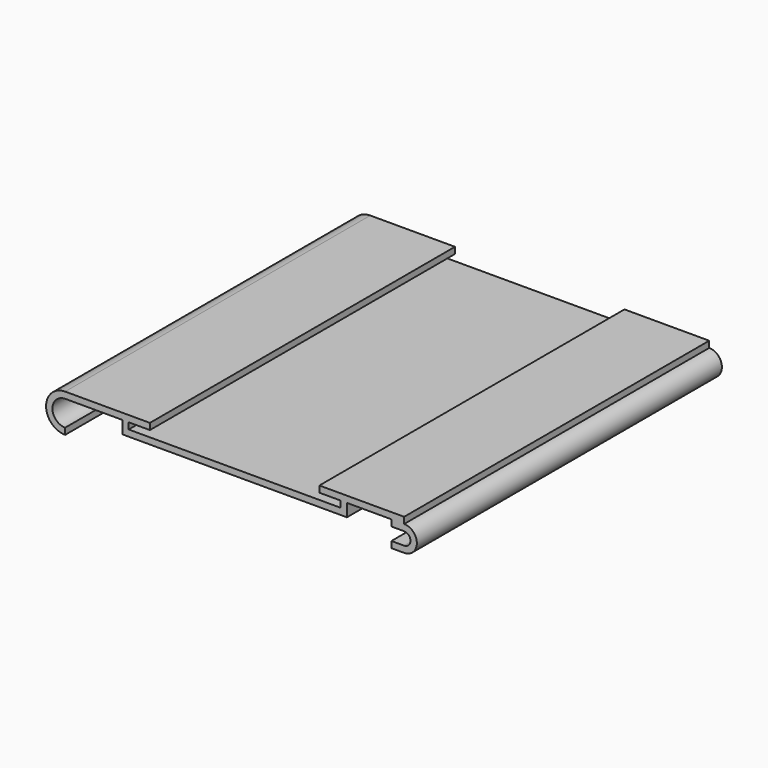
from build123d import *

# Parameters (mm, degrees)
F1_DEPTH  = 90
F2_W      = 50
F2_H      = 3
F3_DEPTH  = 90.001
F4_T      = -1.5
F6_DEPTH  = 90.001
F7_W      = 5
F7_H      = 1.5
F8_DEPTH  = 90
F10_DEPTH = 90.001


with BuildPart() as f1:
    # F0 (on Front) → F1 (new body)
    with BuildSketch(Plane.XZ):
        with BuildLine():
            ThreePointArc((40.0000004103, -4.5), (44.4999995897, 4.103e-07), (39.9999995897, 4.5))
            Line((39.9999995897, 4.5), (-40.0000004103, 4.5))
            ThreePointArc((-40.0000004103, 4.5), (-44.5000004103, -4.103e-07), (-39.9999995897, -4.5))
            Line((-39.9999995897, -4.5), (40.0000004103, -4.5))
        make_face()
    extrude(amount=F1_DEPTH)

    # F2 (on Front) → F3 (cut, through all)
    with BuildSketch(Plane.XZ):
        with Locations((-4.103e-07, 3)):
            Rectangle(F2_W, F2_H)
    extrude(amount=F3_DEPTH, mode=Mode.SUBTRACT)

    # F4
    f4_openings = [f1.faces().sort_by_distance(p)[0] for p in [
        (0, -90, -0.710208),
        (0, 0, -0.710208),
    ]]
    offset(amount=F4_T, openings=f4_openings, kind=Kind.INTERSECTION)

    # F5 (on Front) → F6 (cut, through all)
    with BuildSketch(Plane.XZ):
        with BuildLine():
            ThreePointArc((39.9999995897, 3), (42.9999995897, 4.103e-07), (40.0000004103, -3))
            Line((40.0000004103, -3), (-39.9999998632, -3))
            Line((-39.9999998632, -3), (-39.9999995897, -4.5))
            Line((-39.9999995897, -4.5), (40.0000004103, -4.5))
            ThreePointArc((40.0000004103, -4.5), (44.4999995897, 4.103e-07), (39.9999995897, 4.5))
            Line((39.9999995897, 4.5), (39.9999995897, 3))
        make_face()
    extrude(amount=F6_DEPTH, mode=Mode.SUBTRACT)

    # F7 (on Front) → F8 (join, through all)
    with BuildSketch(Plane.XZ):
        with BuildLine():
            Line((36.9999995897, -3), (39.9999995897, -3))
            ThreePointArc((39.9999995897, -3), (42.9999995897, 0), (39.9999995897, 3))
            Line((39.9999995897, 3), (36.9999995897, 3))
            Line((36.9999995897, 3), (36.9999995897, 0))
            Line((36.9999995897, 0), (36.9999995897, -3))
        make_face()
        with Locations((-22.5000004103, 3.75)):
            Rectangle(F7_W, F7_H)
        with Locations((22.5000004103, 3.75)):
            Rectangle(F7_W, F7_H)
    extrude(amount=F8_DEPTH)

    # F9 (on Front) → F10 (cut, through all)
    with BuildSketch(Plane.XZ):
        with BuildLine():
            Line((36.9999995897, -1.5), (39.9999995897, -1.5))
            ThreePointArc((39.9999995897, -1.5), (41.4999995897, 0), (39.9999995897, 1.5))
            Line((39.9999995897, 1.5), (36.9999995897, 1.5))
            Line((36.9999995897, 1.5), (36.9999995897, -1.5))
        make_face()
    extrude(amount=F10_DEPTH, mode=Mode.SUBTRACT)


solid = f1.part
